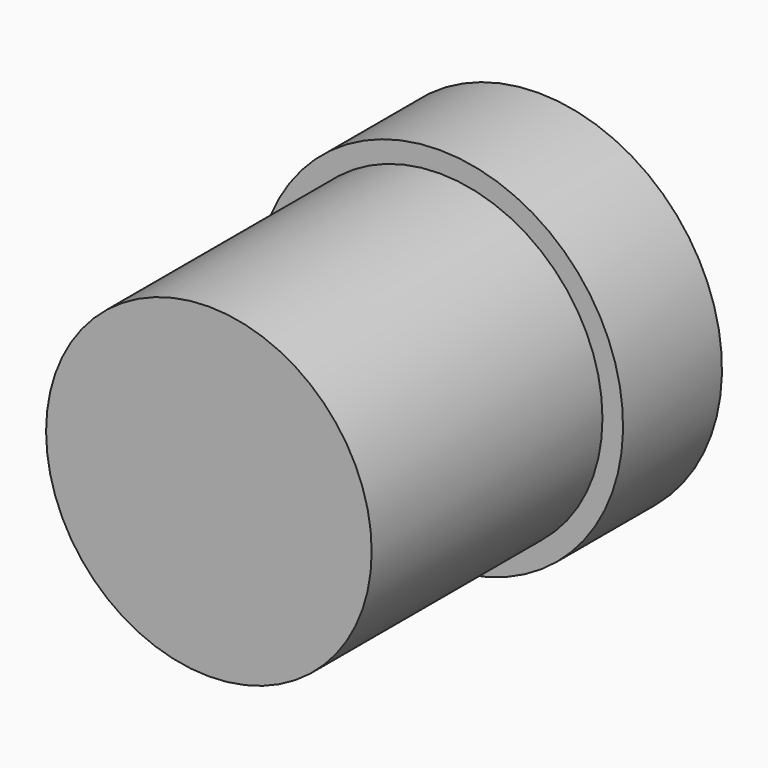
from build123d import *

# Parameters (mm, degrees)
F2_R = 1


with BuildPart() as f1:
    # F0 (on Right) → F1 (revolve)
    with BuildSketch(Plane.YZ):
        Polygon((-13, 0), (0, 0), (0, 1.5), (-3, 1.5), (-3, 4.45), (-6, 4.45), (-6, 3.95), (-13, 3.95), align=None)
    revolve(axis=Axis((0, -6.5, 0), (0, 1, 0)))

    # F2
    f2_edges = [f1.edges().sort_by_distance(p)[0] for p in [
        (0, 0, -1.5),
    ]]
    fillet(f2_edges, radius=F2_R)


solid = f1.part
